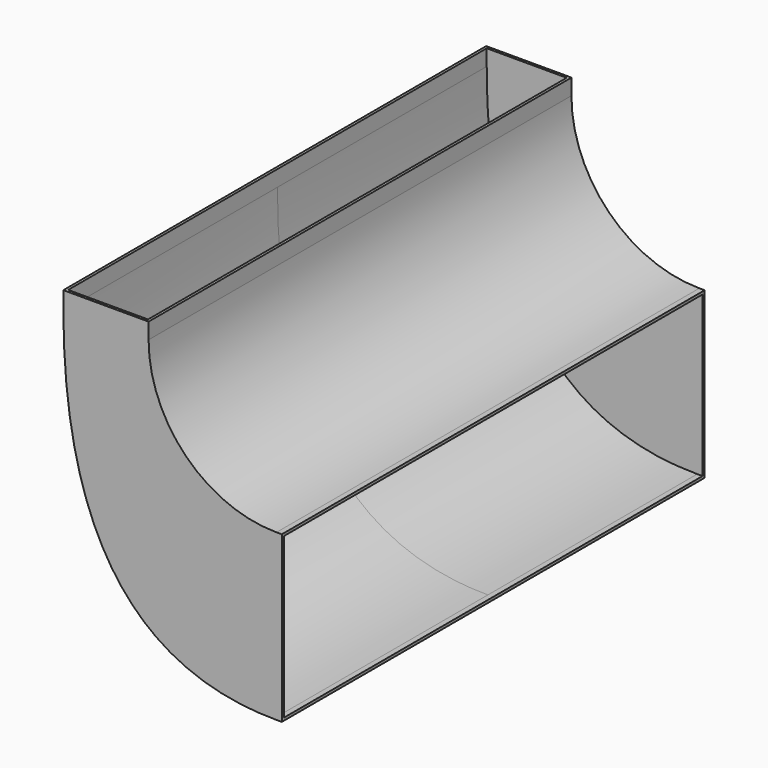
from build123d import *

# Parameters (mm, degrees)
PAD_DEPTH      = 314.96
PAD_FACE4_W    = 629.92
PAD_FACE4_H    = 101.6
PAD001_DEPTH   = 19.05
PAD001_FACE3_W = 629.92
PAD001_FACE3_H = 196.85
PAD002_DEPTH   = 6.35
THICKNESS_T    = -3.175


with BuildPart() as part:
    # Sketch001 → Pad (new body, symmetric)
    with BuildSketch(Plane.XZ):
        with BuildLine():
            ThreePointArc((50.8, 0), (95.436927, -107.763073), (203.2, -152.4))
            Line((203.2, -152.4), (203.2, -349.25))
            add(Edge.make_bspline(
                [(-50.8, 0), (-50.8, -349.25), (203.2, -349.25)],
                knots=[0, 0, 0, 1, 1, 1], degree=2))
            Line((-50.8, 0), (50.8, 0))
        make_face()
    extrude(amount=PAD_DEPTH, both=True)

    # Pad Face4 → Pad001 (add)
    with BuildSketch(Plane(origin=(0, 0, 0), x_dir=(0, 1, 0), z_dir=(0, 0, 1))):
        Rectangle(PAD_FACE4_W, PAD_FACE4_H)
    extrude(amount=PAD001_DEPTH)

    # Pad001 Face3 → Pad002 (add)
    with BuildSketch(Plane(origin=(203.2, 0, -250.825), x_dir=(0, -1, 0), z_dir=(1, 0, 0))):
        Rectangle(PAD001_FACE3_W, PAD001_FACE3_H)
    extrude(amount=PAD002_DEPTH)

    # Thickness
    thickness_openings = [part.faces().sort_by_distance(p)[0] for p in [
        (0, 0, 19.05),
        (209.55, 0, -250.825),
    ]]
    offset(amount=THICKNESS_T, openings=thickness_openings)


solid = part.part
